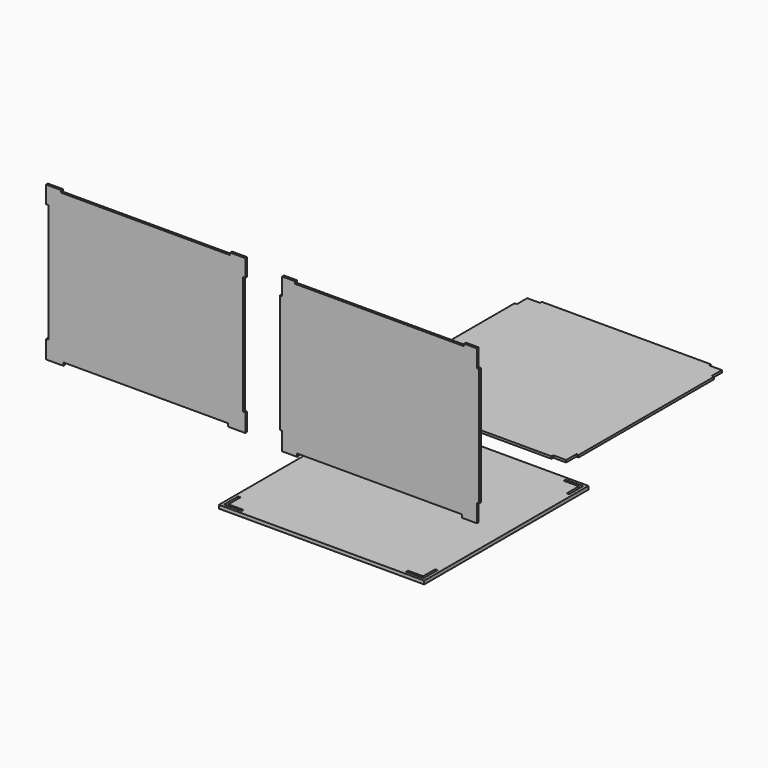
from build123d import *

# Parameters (mm, degrees)
F0_W     = 272
F0_H     = 272
F1_DEPTH = 4.5
F3_DEPTH = 3
F5_DEPTH = 3
F7_DEPTH = 3


with BuildPart() as f1:
    # F0 (on Top) → F1 (new body)
    with BuildSketch(Plane.XY):
        Rectangle(F0_W, F0_H)
        Polygon((-109, -129), (-109, -132.2), (-132.2, -132.2), (-132.2, -109), (-129, -109), (-129, -129), align=None, mode=Mode.SUBTRACT)
        Polygon((129, -109), (132.2, -109), (132.2, -132.2), (109, -132.2), (109, -129), (129, -129), align=None, mode=Mode.SUBTRACT)
        Polygon((-129, 129), (-129, 109), (-132.2, 109), (-132.2, 132.2), (-109, 132.2), (-109, 129), align=None, mode=Mode.SUBTRACT)
        Polygon((109, 129), (109, 132.2), (132.2, 132.2), (132.2, 109), (129, 109), (129, 129), align=None, mode=Mode.SUBTRACT)
    extrude(amount=F1_DEPTH)


with BuildPart() as f3:
    # F2 (on Front) → F3 (new body)
    with BuildSketch(Plane.XZ):
        Polygon((-138.601948, 5.405925), (-138.601948, 9.405925), (79.398052, 9.405925), (79.398052, 5.405925), (99.398052, 5.405925), (99.398052, 9.405925), (99.398052, 29.405925), (102.398052, 29.405925), (102.398052, 186.405925), (99.398052, 186.405925), (99.398052, 209.405925), (82.398052, 209.405925), (82.398052, 206.405925), (-141.601948, 206.405925), (-141.601948, 209.405925), (-158.601948, 209.405925), (-158.601948, 186.405925), (-161.601948, 186.405925), (-161.601948, 29.405925), (-158.601948, 29.405925), (-158.601948, 9.405925), (-158.601948, 5.405925), align=None)
    extrude(amount=F3_DEPTH)


with BuildPart() as f5:
    # F4 (on Front) → F5 (new body)
    with BuildSketch(Plane.XZ):
        Polygon((-448.400591, 10.893699), (-448.400591, 14.893699), (-230.400591, 14.893699), (-230.400591, 10.893699), (-207.400591, 10.893699), (-207.400591, 14.893699), (-207.400591, 34.893699), (-210.400591, 34.893699), (-210.400591, 191.893699), (-207.400591, 191.893699), (-207.400591, 214.893699), (-227.400591, 214.893699), (-227.400591, 211.893699), (-451.400591, 211.893699), (-451.400591, 214.893699), (-471.400591, 214.893699), (-471.400591, 191.893699), (-468.400591, 191.893699), (-468.400591, 34.893699), (-471.400591, 34.893699), (-471.400591, 14.893699), (-471.400591, 10.893699), align=None)
    extrude(amount=F5_DEPTH)


with BuildPart() as f7:
    # F6 (on face) → F7 (new body)
    with BuildSketch(Plane.XY.offset(4.5)):
        Polygon((68.47092, 423.298527), (-155.52908, 423.298527), (-155.52908, 420.298527), (-172.52908, 420.298527), (-172.52908, 403.298527), (-175.52908, 403.298527), (-175.52908, 179.298527), (-172.52908, 179.298527), (-172.52908, 162.298527), (-155.52908, 162.298527), (-155.52908, 159.298527), (68.47092, 159.298527), (68.47092, 162.298527), (85.47092, 162.298527), (85.47092, 179.298527), (88.47092, 179.298527), (88.47092, 403.298527), (85.47092, 403.298527), (85.47092, 420.298527), (68.47092, 420.298527), align=None)
    extrude(amount=F7_DEPTH)


solid = Compound([f1.part, f3.part, f5.part, f7.part])
